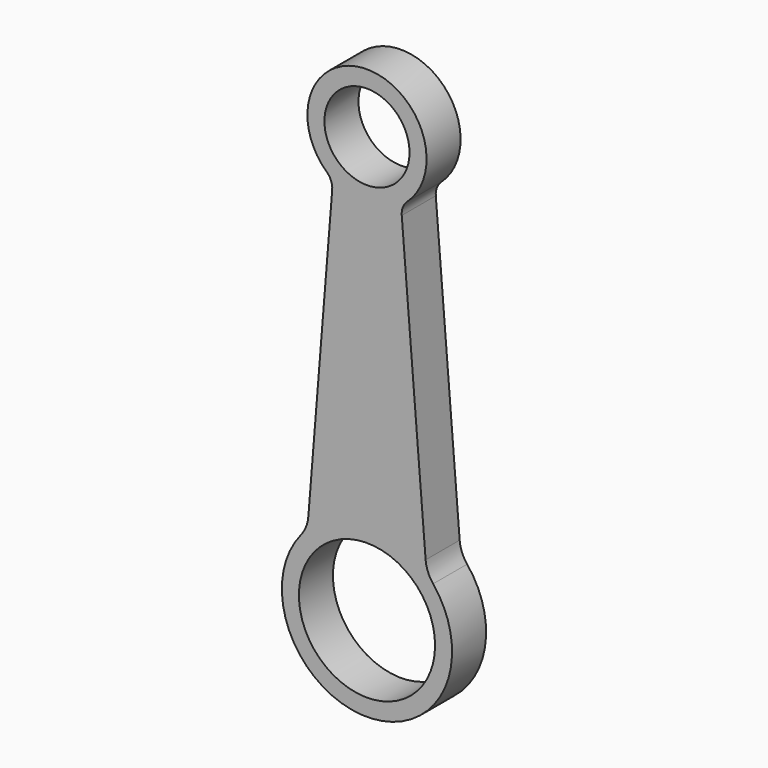
from build123d import *

# Parameters (mm, degrees)
F0_R     = 40
F0_R_2   = 25
F1_DEPTH = 25


with BuildPart() as f1:
    # F0 (on Front) → F1 (new body)
    with BuildSketch(Plane.XZ):
        with BuildLine():
            ThreePointArc((20.425817, 91.009267), (21.085712, 95.47128), (23.639239, 99.189413))
            ThreePointArc((23.639239, 99.189413), (0, 160), (-23.639239, 99.189413))
            ThreePointArc((-23.639239, 99.189413), (-21.085712, 95.47128), (-20.425817, 91.009267))
            Line((-20.425817, 91.009267), (-34.454626, -82.545857))
            ThreePointArc((-34.454626, -82.545857), (-35.822165, -88.367515), (-38.849719, -93.524623))
            ThreePointArc((-38.849719, -93.524623), (0, -175), (38.849719, -93.524623))
            ThreePointArc((38.849719, -93.524623), (35.822165, -88.367515), (34.454626, -82.545857))
            Line((34.454626, -82.545857), (20.425817, 91.009267))
        make_face()
        with Locations((0, -125)):
            Circle(F0_R, mode=Mode.SUBTRACT)
        with Locations((0, 125)):
            Circle(F0_R_2, mode=Mode.SUBTRACT)
    extrude(amount=F1_DEPTH)


solid = f1.part
